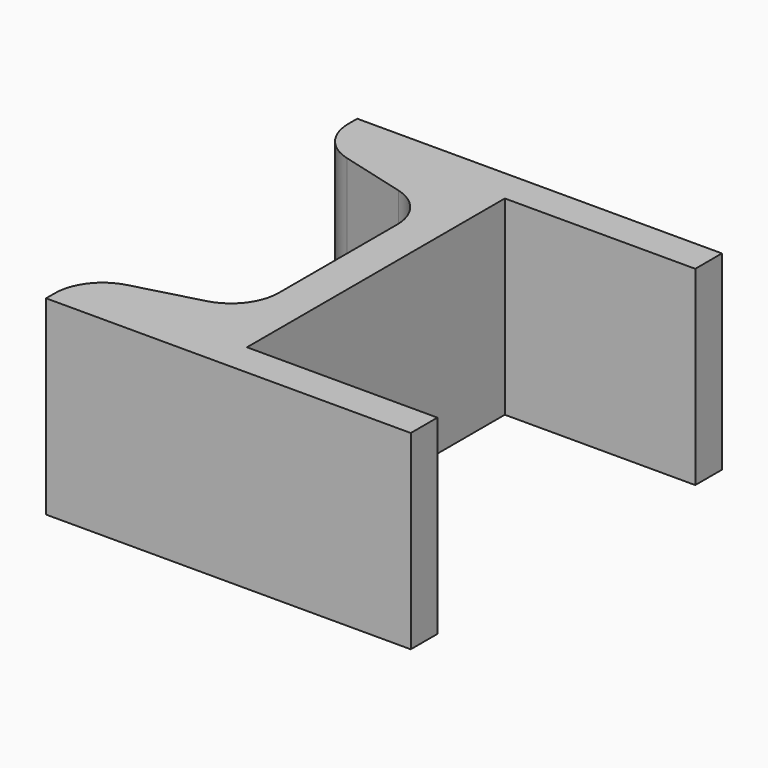
from build123d import *

# Parameters (mm, degrees)
F1_DEPTH = 20


with BuildPart() as f1:
    # F0 (on Top) → F1 (new body)
    with BuildSketch(Plane.XY):
        with BuildLine():
            Line((20, -3.5), (20, 0))
            Line((20, 0), (0, 0))
            Line((0, 0), (0, 33.85))
            Line((0, 33.85), (20, 33.85))
            Line((20, 33.85), (20, 37.35))
            Line((20, 37.35), (-18.3, 37.35))
            Line((-18.3, 37.35), (-18.3, 36.186635))
            ThreePointArc((-18.3, 36.186635), (-17.266767, 33.142828), (-14.594095, 31.357006))
            Line((-14.594095, 31.357006), (-7.705905, 29.511321))
            ThreePointArc((-7.705905, 29.511321), (-5.033233, 27.725499), (-4, 24.681692))
            Line((-4, 24.681692), (-4, 16.925))
            Line((-4, 16.925), (-4, 9.168308))
            ThreePointArc((-4, 9.168308), (-5.033233, 6.124501), (-7.705905, 4.338679))
            Line((-7.705905, 4.338679), (-14.594095, 2.492994))
            ThreePointArc((-14.594095, 2.492994), (-17.266767, 0.707172), (-18.3, -2.336635))
            Line((-18.3, -2.336635), (-18.3, -3.5))
            Line((-18.3, -3.5), (20, -3.5))
        make_face()
    extrude(amount=F1_DEPTH)


solid = f1.part
